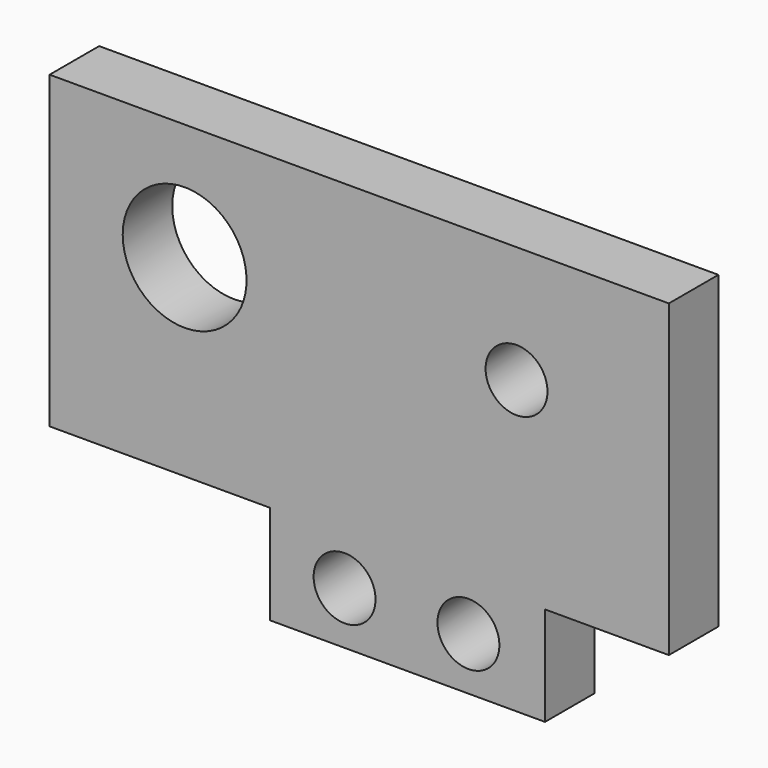
from build123d import *

# Parameters (mm, degrees)
F0_W     = 63.5
F0_H     = 12.7
F0_W_2   = 28.1816057964
F0_H_2   = 5.08
F1_DEPTH = 6.35
F2_D     = 12.7
F2_DEPTH = 12.7
F2_TIP   = 3.8154649308
F3_D     = 6.35
F3_DEPTH = 12.7
F3_TIP   = 1.9077324654
F4_D     = 6.35
F4_DEPTH = 12.7
F4_TIP   = 1.9077324654


with BuildPart() as f1:
    # F0 (on Front) → F1 (new body)
    with BuildSketch(Plane.XZ):
        with Locations((8.7264817292, 15.5304455166)):
            Rectangle(F0_W, F0_H)
        Polygon((40.4764817292, 9.1804455166), (-23.0235182708, 9.1804455166), (-23.0235182708, -9.8695544834), (-0.4051240673, -9.8695544834), (-0.4051240673, -14.9495544834), (27.7764817292, -14.9495544834), (27.7764817292, -9.8695544834), (40.4764817292, -9.8695544834), align=None)
        with Locations((13.685678831, -17.4895544834)):
            Rectangle(F0_W_2, F0_H_2)
    extrude(amount=F1_DEPTH)

    # F2
    with Locations(Plane(origin=(0, 0, 0), x_dir=(1, 0, 0), z_dir=(0, 1, 0))):
        with Locations((-9.1782798991, -9.8773387097)):
            Hole(F2_D / 2, depth=F2_DEPTH)
            with Locations((0, 0, -(F2_DEPTH + F2_TIP / 2))):  # 118° drill point
                Cone(0, F2_D / 2, F2_TIP, mode=Mode.SUBTRACT)

    # F3
    with Locations(Plane(origin=(0, 0, 0), x_dir=(1, 0, 0), z_dir=(0, 1, 0))):
        with Locations((24.8577201009, -9.8773387097)):
            Hole(F3_D / 2, depth=F3_DEPTH)
            with Locations((0, 0, -(F3_DEPTH + F3_TIP / 2))):  # 118° drill point
                Cone(0, F3_D / 2, F3_TIP, mode=Mode.SUBTRACT)

    # F4
    with Locations(Plane(origin=(0, 0, 0), x_dir=(1, 0, 0), z_dir=(0, 1, 0))):
        with Locations((7.2235863984, 14.6380947129), (19.9235863984, 14.6380947129)):
            Hole(F4_D / 2, depth=F4_DEPTH)
            with Locations((0, 0, -(F4_DEPTH + F4_TIP / 2))):  # 118° drill point
                Cone(0, F4_D / 2, F4_TIP, mode=Mode.SUBTRACT)


solid = f1.part
